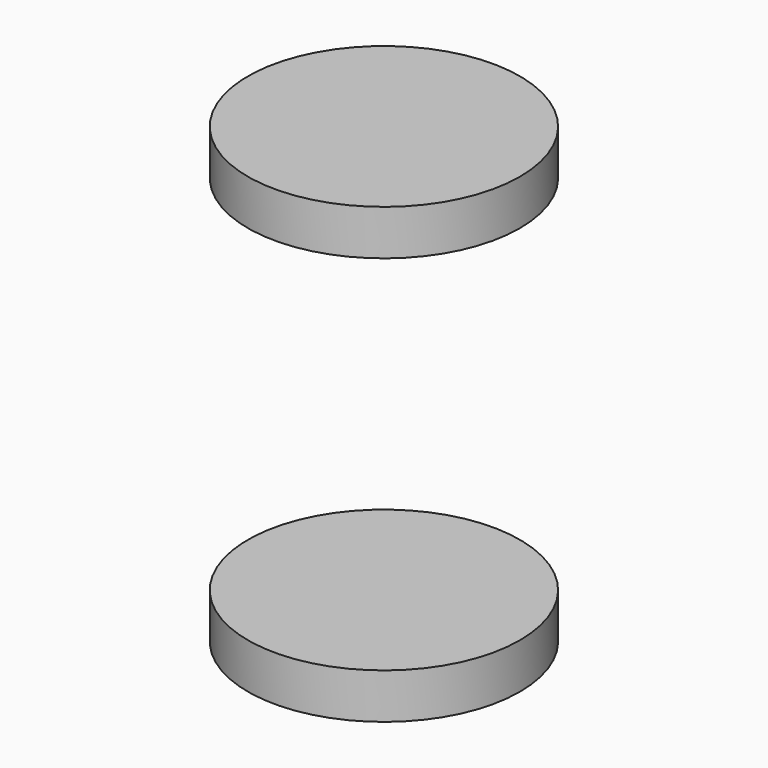
from build123d import *

# Parameters (mm, degrees)
CYLINDER088_R     = 3
CYLINDER088_DEPTH = 1
CYLINDER089_R     = 3
CYLINDER089_DEPTH = 1


with BuildPart() as cylinder082:
    # Cylinder088 → Cylinder088 (new body)
    with BuildSketch(Plane.XY.offset(-5)):
        Circle(CYLINDER088_R)
    extrude(amount=CYLINDER088_DEPTH)


with BuildPart() as fusion103077013004017009:
    # Cylinder089 → Cylinder089 (new body)
    with BuildSketch(Plane.XY.offset(-14)):
        Circle(CYLINDER089_R)
    extrude(amount=CYLINDER089_DEPTH)

    # Fusion103077013004017009: union Cylinder082
    add(cylinder082.part)


solid = fusion103077013004017009.part
